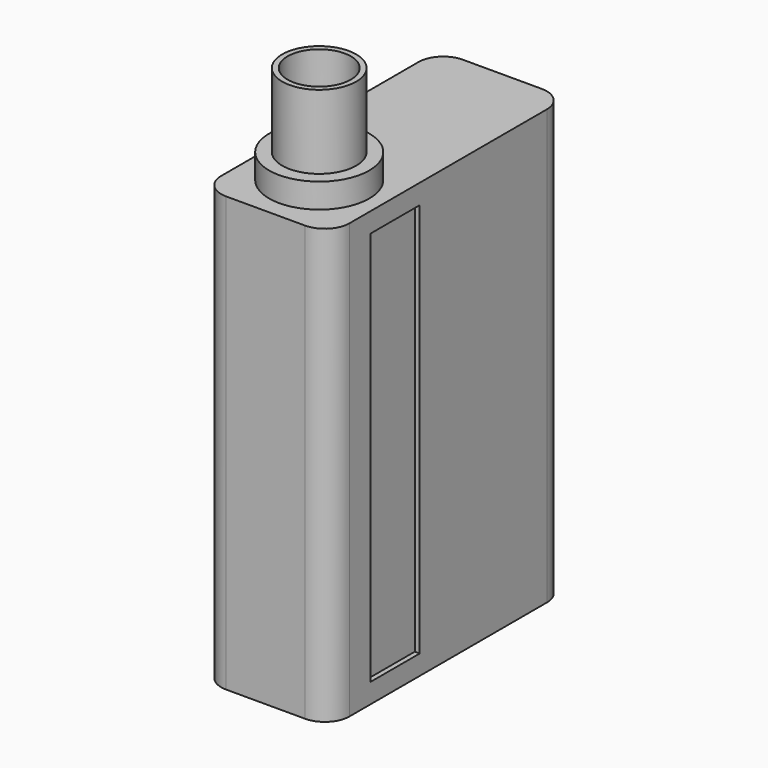
from build123d import *

# Parameters (mm, degrees)
F0_W      = 26
F0_H      = 88
F1_DEPTH  = 30
F2_DEPTH  = 30
F3_R      = 5
F4_R      = 10.1474815612
F5_DEPTH  = 5
F6_R      = 7.5
F7_DEPTH  = 15
F8_R      = 6.4108279614
F9_DEPTH  = 15
F10_W     = 12.5
F10_H     = 80
F11_DEPTH = 1
F12_W     = 16
F12_H     = 52
F13_DEPTH = 5
F14_W     = 3
F14_H     = 44.2491837641
F15_DEPTH = 16
F16_W     = 0.5
F16_H     = 3.3036185751
F17_DEPTH = 16


with BuildPart() as f1:
    # F0 (on Front) → F1 (new body)
    with BuildSketch(Plane.XZ):
        Rectangle(F0_W, F0_H)
    extrude(amount=F1_DEPTH)

    # F2 (add): a face of the model
    f2_faces = [f1.faces().sort_by_distance(p)[0] for p in [
        (0, 0, 0),
    ]]
    extrude(f2_faces, amount=F2_DEPTH)

    # F3
    f3_edges = [f1.edges().sort_by_distance(p)[0] for p in [
        (13, 30, 0),
        (-13, 30, 0),
        (-13, -30, 0),
        (13, -30, 0),
    ]]
    fillet(f3_edges, radius=F3_R)

    # F4 (on face) → F5 (join)
    with BuildSketch(Plane.XY.offset(44)):
        with Locations((0, -16.4110772312)):
            Circle(F4_R)
    extrude(amount=F5_DEPTH)

    # F6 (on face) → F7 (join)
    with BuildSketch(Plane.XY.offset(49)):
        with Locations((0, -16.4110772312)):
            Circle(F6_R)
    extrude(amount=F7_DEPTH)

    # F8 (on face) → F9 (cut)
    with BuildSketch(Plane.XY.offset(64)):
        with Locations((0, -16.4110772312)):
            Circle(F8_R)
    extrude(amount=-F9_DEPTH, mode=Mode.SUBTRACT)

    # F10 (on face) → F11 (cut)
    with BuildSketch(Plane.YZ.offset(13)):
        with Locations((-13.4554863907, 0)):
            Rectangle(F10_W, F10_H)
    extrude(amount=-F11_DEPTH, mode=Mode.SUBTRACT)

    # F12 (on face) → F13 (join)
    with BuildSketch(Plane(origin=(-13, 0, 0), x_dir=(0, -1, 0), z_dir=(-1, 0, 0))):
        with Locations((0, -4)):
            Rectangle(F12_W, F12_H)
    extrude(amount=F13_DEPTH)

    # F14 (on face) → F15 (cut)
    with BuildSketch(Plane.XZ.offset(8)):
        with Locations((-14.5, -4.5717895428)):
            Rectangle(F14_W, F14_H)
    extrude(amount=-F15_DEPTH, mode=Mode.SUBTRACT)

    # F16 (on face) → F17 (cut)
    with BuildSketch(Plane.XZ.offset(8)):
        with Locations((-13.25, -28.3481907124)):
            Rectangle(F16_W, F16_H)
    extrude(amount=-F17_DEPTH, mode=Mode.SUBTRACT)


solid = f1.part
